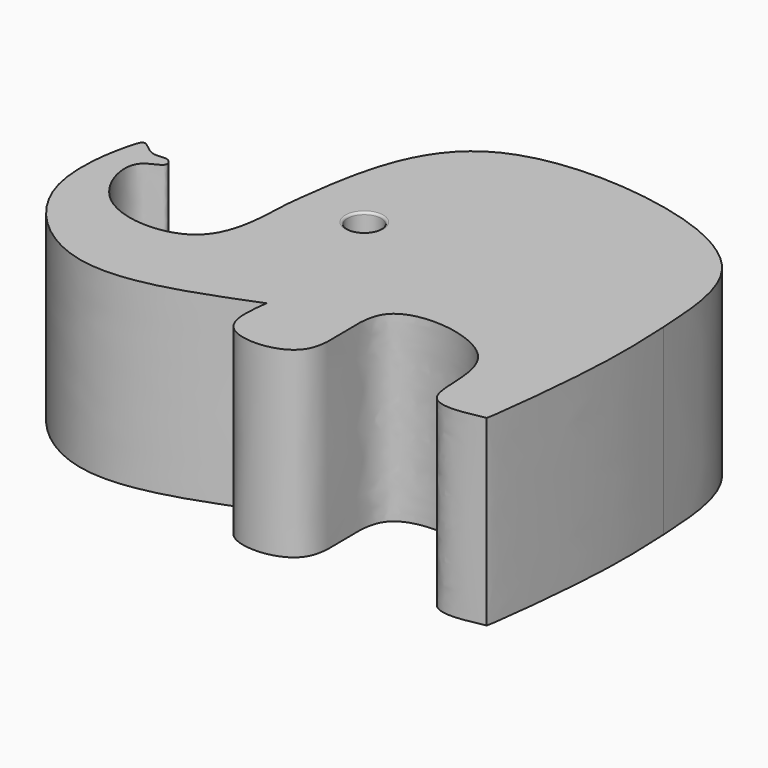
from build123d import *

# Parameters (mm, degrees)
F0_R     = 4.7836700686
F1_DEPTH = 52.07
F2_R     = 0.635
F3_R     = 0.635


with BuildPart() as f1:
    # F0 (on Top) → F1 (new body)
    with BuildSketch(Plane.XY):
        with BuildLine():
            add(Edge.make_bspline(
                [(55.5314160883, 17.6245812327), (55.9078130476, 10.0336554724), (56.6940095504, -5.7715039223), (52.5801501701, -40.5353430605), (52.1551666591, -41.0679753225)],
                knots=[0, 0, 0, 0, 0.4715590555, 0.9809982964, 0.9809982964, 0.9809982964, 0.9809982964], degree=3))
            add(Edge.make_bspline(
                [(55.5314160883, 17.6245812327), (54.9477284591, 28.1339677429), (53.7337426594, 49.9919708037), (19.4966685182, 66.1283638755), (-29.9617766147, 66.3128223316), (-44.7576870916, 37.6634235774), (-46.7711498532, 11.8182849665), (-46.8590036035, 11.7497202009)],
                knots=[0, 0, 0, 0, 0.1867292755, 0.3883698702, 0.6192261051, 0.8128222893, 0.974294501, 0.974294501, 0.974294501, 0.974294501], degree=3))
            add(Edge.make_bspline(
                [(-46.8590036035, 11.7497202009), (-47.1729478823, 1.9629623616), (-47.798812637, -17.547464195), (-81.4842709103, -16.9091492647), (-88.8247165756, 7.384471492), (-78.5231258775, 8.5381210792), (-80.9255810319, 12.8354692773), (-85.6598891434, 10.6678776085), (-90.2523606103, 16.3294284168), (-92.2231724122, 10.7746682569), (-97.6304222788, -16.6746275048), (-66.2535996301, -46.7664882941), (-36.4572618613, -34.8774167991), (-20.5620117486, -28.5350345075)],
                knots=[0, 0, 0, 0, 0.1182766002, 0.235790745, 0.337035127, 0.3957013314, 0.4329361028, 0.4827835682, 0.5368786318, 0.5794259235, 0.6988454229, 0.8393451114, 1, 1, 1, 1], degree=3))
            add(Edge.make_bspline(
                [(52.1121208303, -41.0776102846), (45.5983246739, -42.5345715496), (31.9999877307, -44.5123760385), (41.1252367972, -13.6833039156), (-6.8179379185, -7.5965032239), (8.480672493, -44.9438569372), (-22.8106975933, -46.7653852115), (-21.284568866, -34.3928868555), (-20.5620117486, -28.5350345075)],
                knots=[0.0230051426, 0.0230051426, 0.0230051426, 0.0230051426, 0.1557503933, 0.3254119803, 0.5213063937, 0.7035865815, 0.8596608389, 1, 1, 1, 1], degree=3))
            add(Edge.make_bspline(
                [(52.1551666591, -41.0679753225), (52.1408154301, -41.0711898083), (52.1264668093, -41.0744014744), (52.1121208303, -41.0776102846)],
                knots=[0.0227127845, 0.0227127845, 0.0227127845, 0.0227127845, 0.0230051426, 0.0230051426, 0.0230051426, 0.0230051426], degree=3))
        make_face()
        with Locations((-28.0157662928, 15.5752366409)):
            Circle(F0_R, mode=Mode.SUBTRACT)
        with BuildLine():
            add(Edge.make_bspline(
                [(52.1551666591, -41.0679753225), (52.1393150912, -41.0878421085), (52.1258444433, -41.0833338131), (52.1121208303, -41.0776102846)],
                knots=[0.9809982964, 0.9809982964, 0.9809982964, 0.9809982964, 1, 1, 1, 1], degree=3))
            add(Edge.make_bspline(
                [(52.1551666591, -41.0679753225), (52.1408154301, -41.0711898083), (52.1264668093, -41.0744014744), (52.1121208303, -41.0776102846)],
                knots=[0.0227127845, 0.0227127845, 0.0227127845, 0.0227127845, 0.0230051426, 0.0230051426, 0.0230051426, 0.0230051426], degree=3))
        make_face()
    extrude(amount=F1_DEPTH)

    # F2
    f2_edges = [f1.edges().sort_by_distance(p)[0] for p in [
        (-32.799436, 15.575237, 52.07),
    ]]
    fillet(f2_edges, radius=F2_R)

    # F3
    f3_edges = [f1.edges().sort_by_distance(p)[0] for p in [
        (-32.799436, 15.575237, 0),
    ]]
    fillet(f3_edges, radius=F3_R)


solid = f1.part
